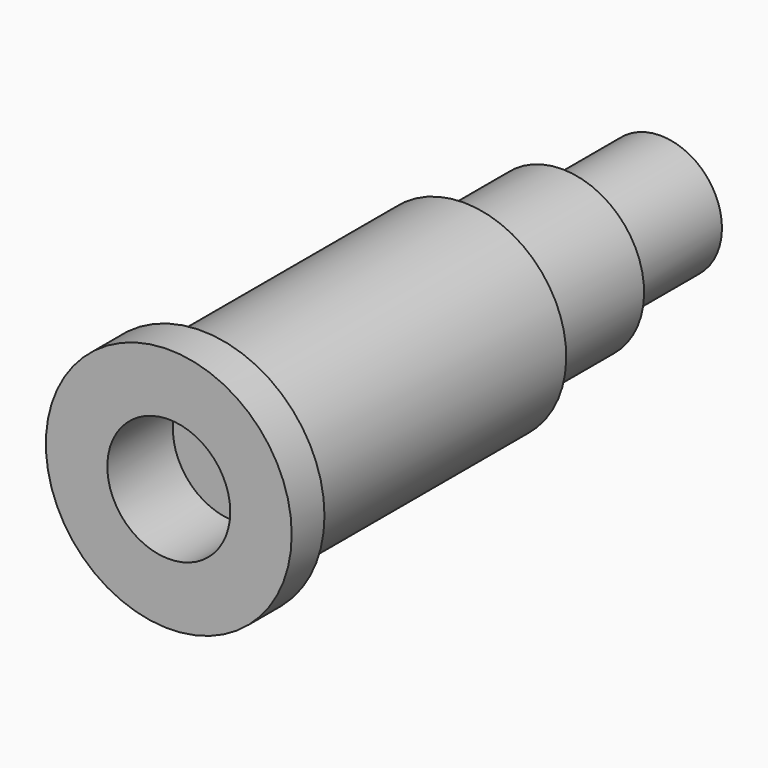
from build123d import *

# Parameters (mm, degrees)
F0_R     = 3
F1_DEPTH = 15
F2_R     = 1.5
F3_DEPTH = 2
F4_W     = 5.878874
F4_H     = 2.213873
F6_R     = 0.5
F7_DEPTH = 13.001
F8_W     = 16.149964
F8_H     = 2.257945
F10_W    = 4.508098
F10_H    = 1.941308


with BuildPart() as f1:
    # F0 (on Front) → F1 (new body)
    with BuildSketch(Plane.XZ):
        Circle(F0_R)
    extrude(amount=F1_DEPTH)

    # F2 (on face) → F3 (cut)
    with BuildSketch(Plane.XZ.offset(15)):
        Circle(F2_R)
    extrude(amount=-F3_DEPTH, mode=Mode.SUBTRACT)

    # F4 (on Right) → F5 (revolve, cut)
    with BuildSketch(Plane.YZ):
        with Locations((-0.060563, 2.606936)):
            Rectangle(F4_W, F4_H)
    revolve(axis=Axis((0, -8.455116, 0), (0, 1, 0)), mode=Mode.SUBTRACT)

    # F6 (on face) → F7 (cut, through all)
    with BuildSketch(Plane.XZ.offset(13)):
        Circle(F6_R)
    extrude(amount=-F7_DEPTH, mode=Mode.SUBTRACT)

    # F8 (on Right) → F9 (revolve, cut)
    with BuildSketch(Plane.YZ):
        with Locations((-5.925018, 3.628972)):
            Rectangle(F8_W, F8_H)
    revolve(axis=Axis((0, -7.437502, 0), (0, 1, 0)), mode=Mode.SUBTRACT)

    # F10 (on Right) → F11 (revolve, cut)
    with BuildSketch(Plane.YZ):
        with Locations((-3.745951, 2.970654)):
            Rectangle(F10_W, F10_H)
    revolve(axis=Axis((0, -6.562206, 0), (0, 1, 0)), mode=Mode.SUBTRACT)


solid = f1.part
